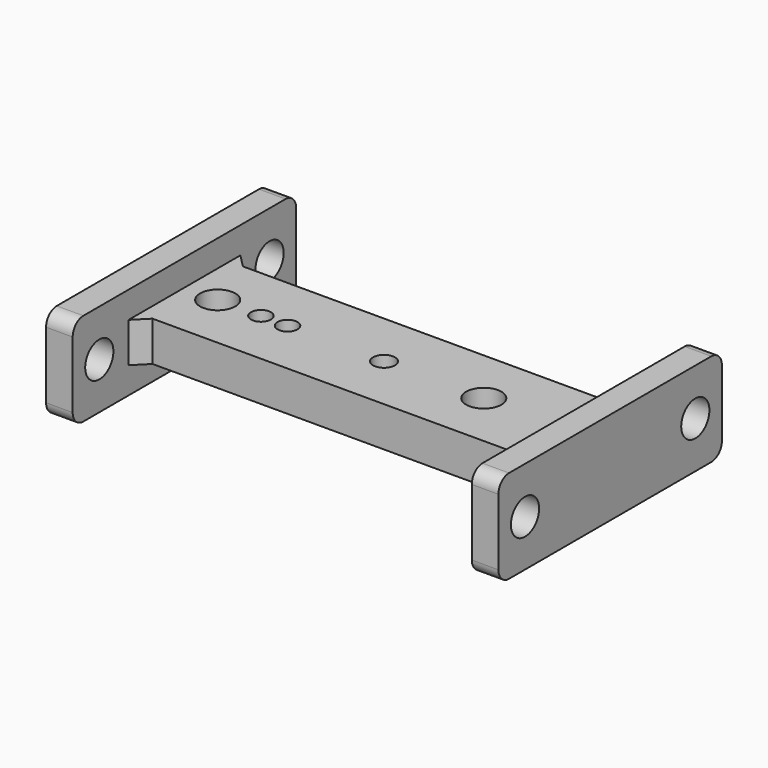
from build123d import *

# Parameters (mm, degrees)
SKETCH001_R     = 1.5
SKETCH001_R_2   = 2.65
PAD_DEPTH       = 14
SKETCH_R        = 2.65
POCKET_DEPTH    = 68.001
SKETCH002_W     = 60
SKETCH002_H     = 17
POCKET001_DEPTH = 4
SKETCH003_W     = 60
SKETCH003_H     = 17
POCKET002_DEPTH = 4
CHAMFER_SIZE    = 2
FILLET_R        = 2
FILLET001_R     = 2
SKETCH004_R     = 1.65
POCKET003_DEPTH = 10.001


with BuildPart() as part:
    # Sketch001 → Pad (new body)
    with BuildSketch(Plane.XY):
        Polygon((30, 21), (34, 21), (34, -21), (30, -21), (30, -8.5), (-30, -8.5), (-30, -21), (-34, -21), (-34, 21), (-30, 21), (-30, 8.5), (30, 8.5), align=None)
        with Locations((-14.5, 0)):
            Circle(SKETCH001_R, mode=Mode.SUBTRACT)
        with Locations((-18.5, 0)):
            Circle(SKETCH001_R, mode=Mode.SUBTRACT)
        with Locations((-25, 0)):
            Circle(SKETCH001_R_2, mode=Mode.SUBTRACT)
        with Locations((15, 0)):
            Circle(SKETCH001_R_2, mode=Mode.SUBTRACT)
    extrude(amount=PAD_DEPTH)

    # Sketch (on Face11 of Pad) → Pocket (cut, through all)
    with BuildSketch(Plane(origin=(-34, 0, 0), x_dir=(0, -1, 0), z_dir=(-1, 0, 0))):
        with Locations((-16, 7)):
            Circle(SKETCH_R)
        with Locations((16, 7)):
            Circle(SKETCH_R)
    extrude(amount=-POCKET_DEPTH, mode=Mode.SUBTRACT)

    # Sketch002 (on Face4 of Pocket) → Pocket001 (cut)
    with BuildSketch(Plane.XY.offset(14)):
        Rectangle(SKETCH002_W, SKETCH002_H)
    extrude(amount=-POCKET001_DEPTH, mode=Mode.SUBTRACT)

    # Sketch003 (on Face4 of Pocket) → Pocket002 (cut)
    with BuildSketch(Plane.XY):
        Rectangle(SKETCH003_W, SKETCH003_H)
    extrude(amount=POCKET002_DEPTH, mode=Mode.SUBTRACT)

    # Chamfer
    chamfer_edges = [part.edges().sort_by_distance(p)[0] for p in [
        (-30, 8.5, 7),
        (30, 8.5, 7),
        (30, -8.5, 7),
        (-30, -8.5, 7),
    ]]
    chamfer(chamfer_edges, length=CHAMFER_SIZE)

    # Fillet
    fillet_edges = [part.edges().sort_by_distance(p)[0] for p in [
        (32, -21, 14),
        (32, -21, 0),
        (32, 21, 14),
        (32, 21, 0),
    ]]
    fillet(fillet_edges, radius=FILLET_R)

    # Fillet001
    fillet001_edges = [part.edges().sort_by_distance(p)[0] for p in [
        (-32, 21, 14),
        (-32, 21, 0),
        (-32, -21, 14),
        (-32, -21, 0),
    ]]
    fillet(fillet001_edges, radius=FILLET001_R)

    # Sketch004 (on Face6 of Fillet001) → Pocket003 (cut, through all)
    with BuildSketch(Plane(origin=(0, 0, 4), x_dir=(1, 0, 0), z_dir=(0, 0, -1))):
        Circle(SKETCH004_R)
    extrude(amount=-POCKET003_DEPTH, mode=Mode.SUBTRACT)


solid = part.part
